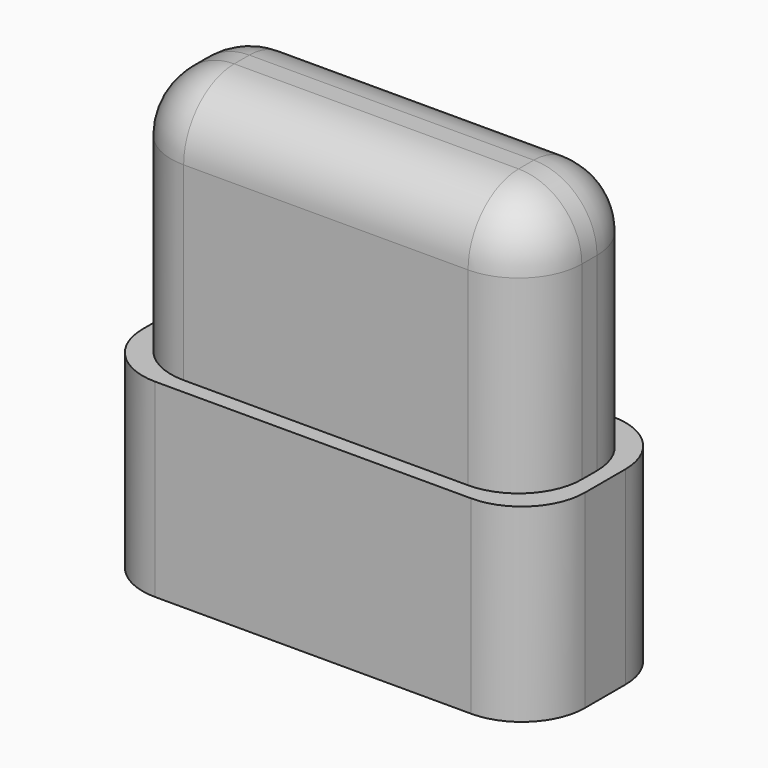
from build123d import *

# Parameters (mm, degrees)
BOX_W        = 6.5
BOX_H        = 2.3
BOX_DEPTH    = 6
FILLET_R     = 1
BOX001_W     = 7
BOX001_H     = 2.8
BOX001_DEPTH = 3
FILLET001_R  = 1


with BuildPart() as fillet_body:
    # Box → Box (new body)
    with BuildSketch(Plane.XY):
        with Locations((3.25, 1.15)):
            Rectangle(BOX_W, BOX_H)
    extrude(amount=BOX_DEPTH)

    # Fillet
    fillet_edges = [fillet_body.edges().sort_by_distance(p)[0] for p in [
        (0, 0, 3),
        (0, 1.15, 6),
        (0, 2.3, 3),
        (6.5, 0, 3),
        (6.5, 1.15, 6),
        (6.5, 2.3, 3),
        (3.25, 0, 6),
        (3.25, 2.3, 6),
    ]]
    fillet(fillet_edges, radius=FILLET_R)


with BuildPart() as fillet001:
    # Box001 → Box001 (new body)
    with BuildSketch(Plane(origin=(-0.25, -0.25, -1), x_dir=(1, 0, 0), z_dir=(0, 0, 1))):
        with Locations((3.5, 1.4)):
            Rectangle(BOX001_W, BOX001_H)
    extrude(amount=BOX001_DEPTH)

    # Fillet001
    fillet001_edges = [fillet001.edges().sort_by_distance(p)[0] for p in [
        (-0.25, -0.25, 0.5),
        (-0.25, 2.55, 0.5),
        (6.75, -0.25, 0.5),
        (6.75, 2.55, 0.5),
    ]]
    fillet(fillet001_edges, radius=FILLET001_R)


solid = Compound([fillet_body.part, fillet001.part])
